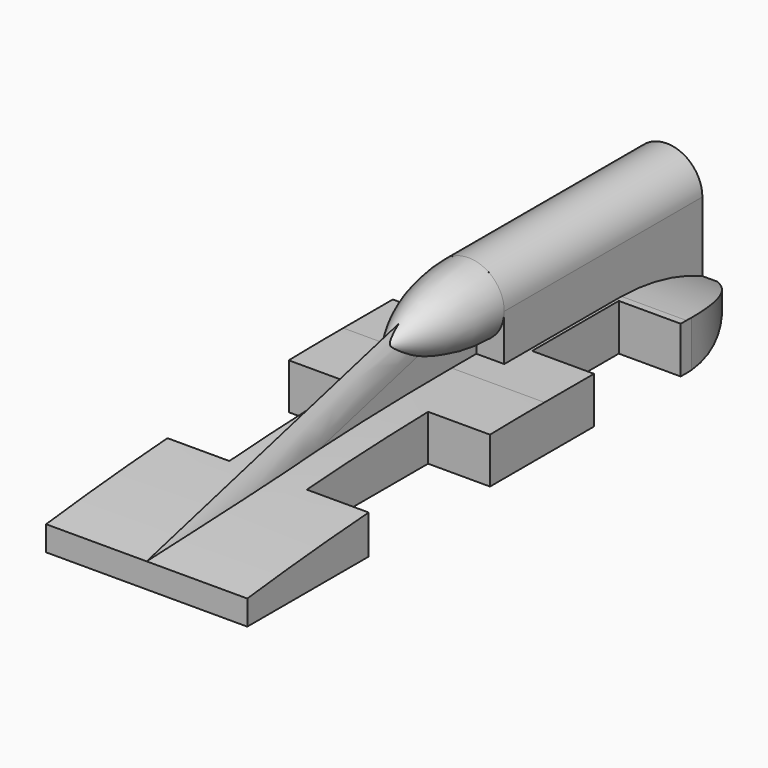
from build123d import *

# Parameters (mm, degrees)
F1_DEPTH  = 32.5
F2_W      = 20
F2_H      = 49
F2_H_2    = 35
F4_DEPTH  = 15.001
F5_DEPTH  = 21
F7_R      = 9.75
F8_DEPTH  = 80
F9_DEPTH  = 55
F16_DEPTH = 35.0010001
F18_DEPTH = 65.0010001


with BuildPart() as f1:
    # F0 (on Right) → F1 (new body)
    with BuildSketch(Plane.YZ):
        with BuildLine():
            Line((0, 8), (0, 0))
            Line((0, 0), (210, 0))
            Line((210, 0), (210, 15))
            Line((210, 15), (120, 15))
            ThreePointArc((120, 15), (59.898003361, 13.2485138122), (0, 8))
        make_face()
    extrude(amount=F1_DEPTH)

    # F2 (on face) → F4 (cut, through all)
    with BuildSketch(Plane(origin=(0, 0, 0), x_dir=(1, 0, 0), z_dir=(0, 0, -1))):
        with Locations((22.5, -73.5)):
            Rectangle(F2_W, F2_H)
        with Locations((22.5, -157.5)):
            Rectangle(F2_W, F2_H_2)
        with BuildLine():
            Line((32.5, -210), (32.5, -179.2712736624))
            ThreePointArc((32.5, -179.2712736624), (27.7678036817, -196.4298231317), (16.25, -210))
            Line((16.25, -210), (32.5, -210))
        make_face()
    extrude(amount=-F4_DEPTH, mode=Mode.SUBTRACT)

    # F3 (on face) → F5 (cut)
    with BuildSketch(Plane.YZ.offset(32.5)):
        with BuildLine():
            Line((210, 15), (177.3250487525, 15))
            ThreePointArc((177.3250487525, 15), (194.0598007054, 12.980797958), (210, 7.5))
            Line((210, 7.5), (210, 15))
        make_face()
        with BuildLine():
            ThreePointArc((210, 7.5), (194.0598007054, 2.019202042), (177.3250487525, 0))
            Line((177.3250487525, 0), (210, 0))
            Line((210, 0), (210, 7.5))
        make_face()
    extrude(amount=-F5_DEPTH, mode=Mode.SUBTRACT)

    # F6: F1 across plane


with BuildPart() as f1_1:
    add(f1.part)
    add(f1.part.mirror(Plane.YZ))

    # F7 (on face) → F8 (join)
    with BuildSketch(Plane(origin=(0, 210, 0), x_dir=(-1, 0, 0), z_dir=(0, 1, 0))):
        with BuildLine():
            Line((-11.5, 30), (-11.5, 15))
            Line((-11.5, 15), (11.5, 15))
            Line((11.5, 15), (11.5, 30))
            ThreePointArc((11.5, 30), (0, 41.5), (-11.5, 30))
        make_face()
        with Locations((0, 30)):
            Circle(F7_R, mode=Mode.SUBTRACT)
        with Locations((0, 30)):
            Circle(F7_R)
    extrude(amount=-F8_DEPTH)

    # F7 (on face) → F9 (cut)
    with BuildSketch(Plane(origin=(0, 210, 0), x_dir=(-1, 0, 0), z_dir=(0, 1, 0))):
        with Locations((0, 30)):
            Circle(F7_R)
    extrude(amount=-F9_DEPTH, mode=Mode.SUBTRACT)

    # F14: sweep along a path in F13
    with BuildLine(Plane.YZ) as f14_path:
        Line((130, 41.5), (0, 8))
    # F12 (on face) → F14 (sweep)
    with BuildSketch(Plane.XZ.offset(-130)):
        with BuildLine():
            Line((-2.5, 15), (2.5, 15))
            Line((2.5, 15), (2.5, 30))
            ThreePointArc((2.5, 30), (2.2164021774, 35.9600874299), (0, 41.5))
            ThreePointArc((0, 41.5), (-2.2164021774, 35.9600874299), (-2.5, 30))
            Line((-2.5, 30), (-2.5, 15))
        make_face()
    sweep(path=f14_path.line)

    # F15 (on face) → F16 (cut, through all)
    with BuildSketch(Plane.YZ.offset(2.5)):
        Polygon((0, 0), (0, -3.5), (13.5820895522, 0), align=None)
        Polygon((13.5820895522, 0), (0, -3.5), (0, -18.5), (71.7910447761, 0), (49, 0), align=None)
    extrude(amount=-F16_DEPTH, mode=Mode.SUBTRACT)

    # F17 (on face) → F18 (cut, through all)
    with BuildSketch(Plane.YZ.offset(32.5)):
        Polygon((0, -3.5), (13.5820895522, 0), (0, 0), align=None)
    extrude(amount=-F18_DEPTH, mode=Mode.SUBTRACT)


with BuildPart() as f11:
    # F10 (on Right) → F11 (revolve)
    with BuildSketch(Plane.YZ):
        with BuildLine():
            Line((95, 30), (130, 30))
            Line((130, 30), (130, 41.5))
            ThreePointArc((130, 41.5), (111.5795629802, 38.5513300602), (95, 30))
        make_face()
    revolve(axis=Axis((0, 112.5, 30), (0, -1, 0)))


solid = Compound([f1_1.part, f11.part])
